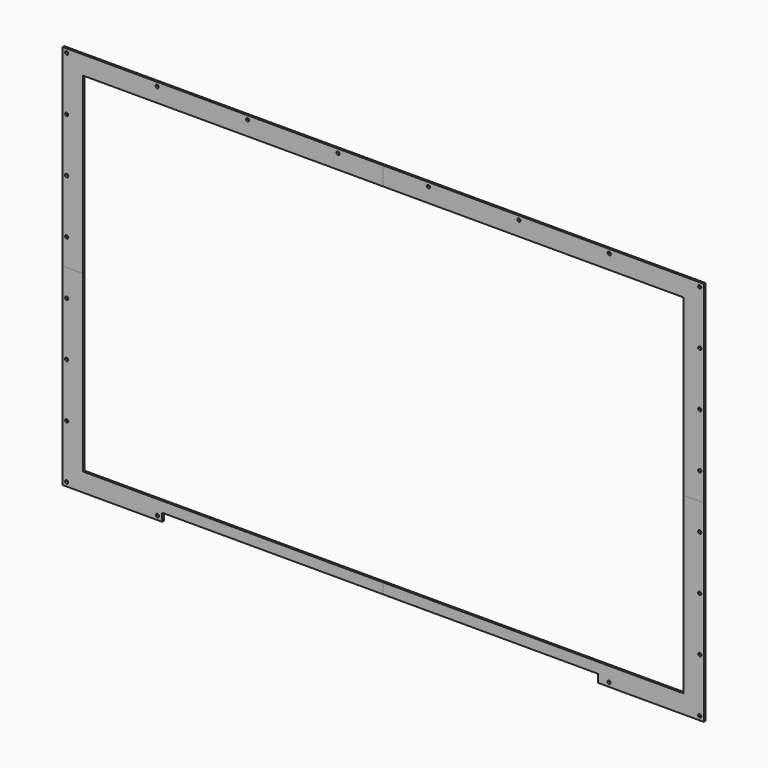
from build123d import *

# Parameters (mm, degrees)
F0_R     = 2.54
F1_DEPTH = 1.5875
F2_DEPTH = 1.5875
F3_DEPTH = 1.5875
F4_DEPTH = 1.5875


with BuildPart() as f1:
    # F0 (on Front) → F1 (new body, symmetric)
    with BuildSketch(Plane.XZ):
        Polygon((0, 276.225), (0, 292.89375), (-495.3, 292.89375), (-495.3, 0), (-475.996, 0), (-475.996, 276.225), align=None)
        with BuildLine():
            Line((-495.3, 0), (-495.3, 292.89375))
            Line((-495.3, 292.89375), (-499.853949, 297.447699))
            ThreePointArc((-499.853949, 297.447699), (-503.446051, 297.447699), (-503.446051, 301.039801))
            Line((-503.446051, 301.039801), (-508, 305.59375))
            Line((-508, 305.59375), (-508, 0))
            Line((-508, 0), (-495.3, 0))
        make_face()
        with Locations((-501.65, 42.749107)):
            Circle(F0_R, mode=Mode.SUBTRACT)
        with Locations((-501.65, 128.247321)):
            Circle(F0_R, mode=Mode.SUBTRACT)
        with Locations((-501.65, 213.745536)):
            Circle(F0_R, mode=Mode.SUBTRACT)
        with BuildLine():
            Line((-495.3, 292.89375), (0, 292.89375))
            Line((0, 292.89375), (0, 305.59375))
            Line((0, 305.59375), (-508, 305.59375))
            Line((-508, 305.59375), (-503.446051, 301.039801))
            ThreePointArc((-503.446051, 301.039801), (-500.677984, 301.590404), (-499.11, 299.24375))
            ThreePointArc((-499.11, 299.24375), (-499.303346, 298.271734), (-499.853949, 297.447699))
            Line((-499.853949, 297.447699), (-495.3, 292.89375))
        make_face()
        with Locations((-358.321429, 299.24375)):
            Circle(F0_R, mode=Mode.SUBTRACT)
        with Locations((-214.992857, 299.24375)):
            Circle(F0_R, mode=Mode.SUBTRACT)
        with Locations((-71.664286, 299.24375)):
            Circle(F0_R, mode=Mode.SUBTRACT)
    extrude(amount=F1_DEPTH, both=True)


with BuildPart() as f2:
    # F0 (on Front) → F2 (new body, symmetric)
    with BuildSketch(Plane.XZ):
        Polygon((495.3, 0), (495.3, 292.89375), (0, 292.89375), (0, 276.225), (475.996, 276.225), (475.996, 0), align=None)
        Polygon((0, 292.89375), (495.3, 292.89375), (495.3, 0), (508, 0), (508, 305.59375), (0, 305.59375), align=None)
        with Locations((501.65, 42.749107)):
            Circle(F0_R, mode=Mode.SUBTRACT)
        with Locations((501.65, 128.247321)):
            Circle(F0_R, mode=Mode.SUBTRACT)
        with Locations((71.664286, 299.24375)):
            Circle(F0_R, mode=Mode.SUBTRACT)
        with Locations((214.992857, 299.24375)):
            Circle(F0_R, mode=Mode.SUBTRACT)
        with Locations((501.65, 213.745536)):
            Circle(F0_R, mode=Mode.SUBTRACT)
        with Locations((358.321429, 299.24375)):
            Circle(F0_R, mode=Mode.SUBTRACT)
        with Locations((501.65, 299.24375)):
            Circle(F0_R, mode=Mode.SUBTRACT)
    extrude(amount=F2_DEPTH, both=True)


with BuildPart() as f3:
    # F0 (on Front) → F3 (new body, symmetric)
    with BuildSketch(Plane.XZ):
        Polygon((495.3, -292.89375), (495.3, 0), (475.996, 0), (475.996, -276.225), (0, -276.225), (0, -292.89375), (340.29904, -292.89375), align=None)
        Polygon((508, 0), (495.3, 0), (495.3, -292.89375), (340.29904, -292.89375), (340.29904, -305.59375), (508, -305.59375), align=None)
        with Locations((357.84, -299.24375)):
            Circle(F0_R, mode=Mode.SUBTRACT)
        with Locations((501.65, -299.24375)):
            Circle(F0_R, mode=Mode.SUBTRACT)
        with Locations((501.65, -213.745536)):
            Circle(F0_R, mode=Mode.SUBTRACT)
        with Locations((501.65, -128.247321)):
            Circle(F0_R, mode=Mode.SUBTRACT)
        with Locations((501.65, -42.749107)):
            Circle(F0_R, mode=Mode.SUBTRACT)
    extrude(amount=F3_DEPTH, both=True)


with BuildPart() as f4:
    # F0 (on Front) → F4 (new body, symmetric)
    with BuildSketch(Plane.XZ):
        Polygon((-475.996, 0), (-495.3, 0), (-495.3, -292.89375), (-350.29902, -292.89375), (0, -292.89375), (0, -276.225), (-475.996, -276.225), align=None)
        with BuildLine():
            Line((-350.29902, -292.89375), (-495.3, -292.89375))
            Line((-495.3, -292.89375), (-499.853949, -297.447699))
            ThreePointArc((-499.853949, -297.447699), (-499.303346, -298.271734), (-499.11, -299.24375))
            ThreePointArc((-499.11, -299.24375), (-500.677984, -301.590404), (-503.446051, -301.039801))
            Line((-503.446051, -301.039801), (-508, -305.59375))
            Line((-508, -305.59375), (-350.29902, -305.59375))
            Line((-350.29902, -305.59375), (-350.29902, -292.89375))
        make_face()
        with Locations((-357.84, -299.24375)):
            Circle(F0_R, mode=Mode.SUBTRACT)
        with BuildLine():
            Line((-495.3, -292.89375), (-495.3, 0))
            Line((-495.3, 0), (-508, 0))
            Line((-508, 0), (-508, -305.59375))
            Line((-508, -305.59375), (-503.446051, -301.039801))
            ThreePointArc((-503.446051, -301.039801), (-503.446051, -297.447699), (-499.853949, -297.447699))
            Line((-499.853949, -297.447699), (-495.3, -292.89375))
        make_face()
        with Locations((-501.65, -213.745536)):
            Circle(F0_R, mode=Mode.SUBTRACT)
        with Locations((-501.65, -128.247321)):
            Circle(F0_R, mode=Mode.SUBTRACT)
        with Locations((-501.65, -42.749107)):
            Circle(F0_R, mode=Mode.SUBTRACT)
    extrude(amount=F4_DEPTH, both=True)


solid = Compound([f1.part, f2.part, f3.part, f4.part])
